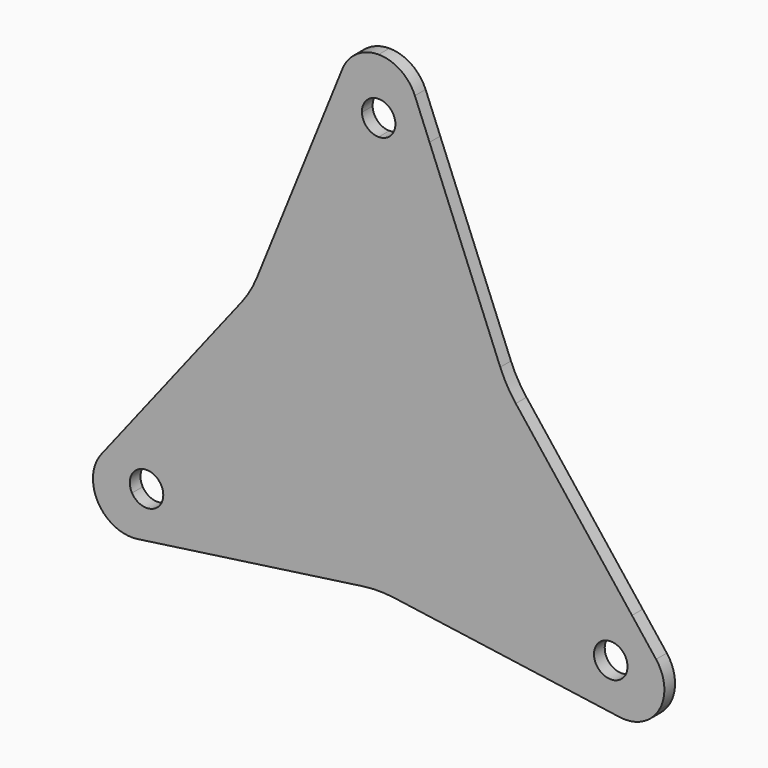
from build123d import *

# Parameters (mm, degrees)
F1_DEPTH = 6
F2_R     = 50
F3_R     = 50
F4_R     = 50


with BuildPart() as f1:
    # F0 (on Front) → F1 (new body)
    with BuildSketch(Plane.XZ):
        with BuildLine():
            ThreePointArc((107.4682422482, -53.390794226), (110.6754015758, -46.378394604), (113.4255666495, -39.1744920866))
            Line((113.4255666495, -39.1744920866), (57.0742879696, 32.9518555231))
            Line((57.0742879696, 32.9518555231), (0, 0))
            Line((0, 0), (97.4278579257, -56.25))
            ThreePointArc((97.4278579257, -56.25), (101.8689343878, -52.7867749652), (107.4682422482, -53.390794226))
        make_face()
        with BuildLine():
            Line((110.4182389825, -63.75), (125.5736835487, -72.5))
            ThreePointArc((125.5736835487, -72.5), (127.8756098621, -62.5292617095), (124.2084271706, -52.9759241818))
            Line((124.2084271706, -52.9759241818), (113.4255666495, -39.1744920866))
            ThreePointArc((113.4255666495, -39.1744920866), (110.6754015758, -46.378394604), (107.4682422482, -53.390794226))
            ThreePointArc((107.4682422482, -53.390794226), (110.3588449649, -56.1489581575), (111.4230484541, -60))
            ThreePointArc((111.4230484541, -60), (111.1674921513, -61.9411428383), (110.4182389825, -63.75))
        make_face()
        with BuildLine():
            ThreePointArc((90.6388886521, -78.6421761138), (95.5025687017, -72.6585120367), (99.9719052521, -66.374830774))
            ThreePointArc((99.9719052521, -66.374830774), (96.6491552976, -61.8276975537), (97.4278579257, -56.25))
            Line((97.4278579257, -56.25), (0, 0))
            Line((0, 0), (0, -65.9037110461))
            Line((0, -65.9037110461), (90.6388886521, -78.6421761138))
        make_face()
        with BuildLine():
            Line((-90.6388886521, -78.6421761138), (0, -65.9037110461))
            Line((0, -65.9037110461), (0, 0))
            Line((0, 0), (-97.4278579257, -56.25))
            ThreePointArc((-97.4278579257, -56.25), (-96.678604757, -58.0588571617), (-96.4230484541, -60))
            ThreePointArc((-96.4230484541, -60), (-97.3700501322, -63.6480423507), (-99.9719052521, -66.374830774))
            ThreePointArc((-99.9719052521, -66.374830774), (-95.5025687017, -72.6585120367), (-90.6388886521, -78.6421761138))
        make_face()
        with BuildLine():
            Line((0, 0), (-57.0742879696, 32.9518555231))
            Line((-57.0742879696, 32.9518555231), (-113.4255666495, -39.1744920866))
            ThreePointArc((-113.4255666495, -39.1744920866), (-110.6754015758, -46.378394604), (-107.4682422482, -53.390794226))
            ThreePointArc((-107.4682422482, -53.390794226), (-101.8689343878, -52.7867749652), (-97.4278579257, -56.25))
            Line((-97.4278579257, -56.25), (0, 0))
        make_face()
        with BuildLine():
            ThreePointArc((-124.2084271706, -52.9759241818), (-127.8756098621, -62.5292617095), (-125.5736835487, -72.5))
            Line((-125.5736835487, -72.5), (-110.4182389825, -63.75))
            ThreePointArc((-110.4182389825, -63.75), (-111.1362734889, -57.9458859336), (-107.4682422482, -53.390794226))
            ThreePointArc((-107.4682422482, -53.390794226), (-110.6754015758, -46.378394604), (-113.4255666495, -39.1744920866))
            Line((-113.4255666495, -39.1744920866), (-124.2084271706, -52.9759241818))
        make_face()
        with BuildLine():
            Line((-110.4182389825, -63.75), (-125.5736835487, -72.5))
            ThreePointArc((-125.5736835487, -72.5), (-118.0897340513, -79.4788958102), (-107.9827097157, -81.079691203))
            Line((-107.9827097157, -81.079691203), (-90.6388886521, -78.6421761138))
            ThreePointArc((-90.6388886521, -78.6421761138), (-95.5025687017, -72.6585120367), (-99.9719052521, -66.374830774))
            ThreePointArc((-99.9719052521, -66.374830774), (-105.7507460078, -67.2738931565), (-110.4182389825, -63.75))
        make_face()
        with BuildLine():
            ThreePointArc((0, 112.5), (-5.2197790902, 114.6144725189), (-7.4963369961, 119.765625))
            ThreePointArc((-7.4963369961, 119.765625), (-15.1728328741, 119.0369066406), (-22.7866779974, 117.8166682004))
            Line((-22.7866779974, 117.8166682004), (-57.0742879696, 32.9518555231))
            Line((-57.0742879696, 32.9518555231), (0, 0))
            Line((0, 0), (0, 112.5))
        make_face()
        with BuildLine():
            Line((0, 127.5), (0, 145))
            ThreePointArc((0, 145), (-9.7858758107, 142.0081575197), (-16.2257174549, 134.0556153848))
            Line((-16.2257174549, 134.0556153848), (-22.7866779974, 117.8166682004))
            ThreePointArc((-22.7866779974, 117.8166682004), (-15.1728328741, 119.0369066406), (-7.4963369961, 119.765625))
            ThreePointArc((-7.4963369961, 119.765625), (-5.3855274811, 125.2197790902), (0, 127.5))
        make_face()
        with BuildLine():
            ThreePointArc((16.2257174549, 134.0556153848), (9.7858758107, 142.0081575197), (0, 145))
            Line((0, 145), (0, 127.5))
            ThreePointArc((0, 127.5), (5.3033008589, 125.3033008589), (7.5, 120))
            ThreePointArc((7.5, 120), (7.4990841931, 119.8827981888), (7.4963369961, 119.765625))
            ThreePointArc((7.4963369961, 119.765625), (15.1728328741, 119.0369066406), (22.7866779974, 117.8166682004))
            Line((22.7866779974, 117.8166682004), (16.2257174549, 134.0556153848))
        make_face()
        with BuildLine():
            ThreePointArc((107.9827097157, -81.079691203), (118.0897340513, -79.4788958102), (125.5736835487, -72.5))
            Line((125.5736835487, -72.5), (110.4182389825, -63.75))
            ThreePointArc((110.4182389825, -63.75), (105.7507460078, -67.2738931565), (99.9719052521, -66.374830774))
            ThreePointArc((99.9719052521, -66.374830774), (95.5025687017, -72.6585120367), (90.6388886521, -78.6421761138))
            Line((90.6388886521, -78.6421761138), (107.9827097157, -81.079691203))
        make_face()
        with BuildLine():
            Line((57.0742879696, 32.9518555231), (22.7866779974, 117.8166682004))
            ThreePointArc((22.7866779974, 117.8166682004), (15.1728328741, 119.0369066406), (7.4963369961, 119.765625))
            ThreePointArc((7.4963369961, 119.765625), (5.2197790902, 114.6144725189), (0, 112.5))
            Line((0, 112.5), (0, 0))
            Line((0, 0), (57.0742879696, 32.9518555231))
        make_face()
    extrude(amount=F1_DEPTH)

    # F2
    f2_edges = [f1.edges().sort_by_distance(p)[0] for p in [
        (-57.074288, -3, 32.951856),
    ]]
    fillet(f2_edges, radius=F2_R)

    # F3
    f3_edges = [f1.edges().sort_by_distance(p)[0] for p in [
        (0, -3, -65.903711),
    ]]
    fillet(f3_edges, radius=F3_R)

    # F4
    f4_edges = [f1.edges().sort_by_distance(p)[0] for p in [
        (57.074288, -3, 32.951856),
    ]]
    fillet(f4_edges, radius=F4_R)


solid = f1.part
